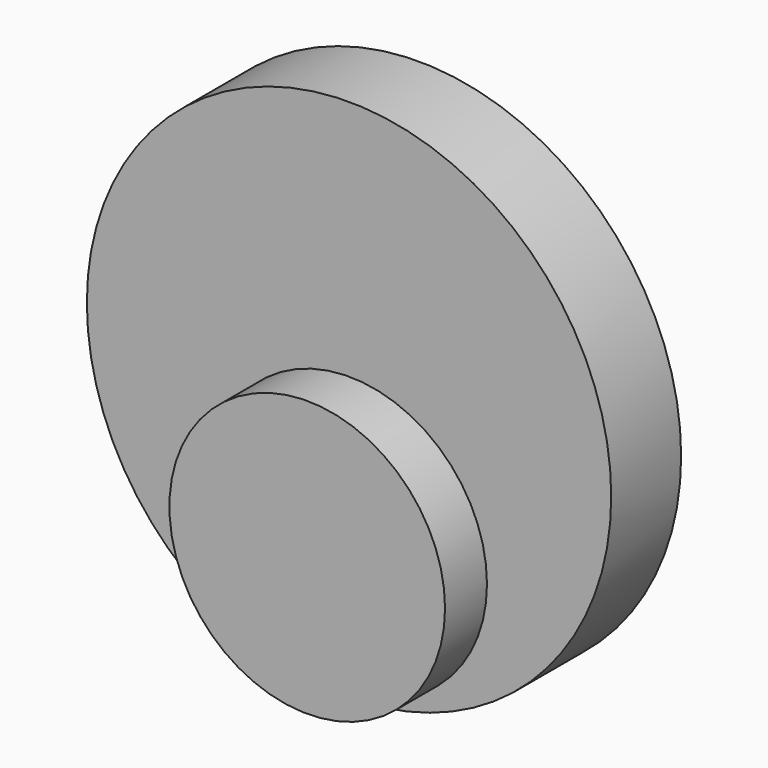
from build123d import *

# Parameters (mm, degrees)
F0_R     = 15
F0_R_2   = 7.884365
F1_DEPTH = 5
F2_DEPTH = 8


with BuildPart() as f1:
    # F0 (on Front) → F1 (new body)
    with BuildSketch(Plane.XZ):
        with Locations((-47.353451, 0)):
            Circle(F0_R)
        with Locations((-47.346041, -6.722561)):
            Circle(F0_R_2, mode=Mode.SUBTRACT)
        with Locations((-47.346041, -6.722561)):
            Circle(F0_R_2)
    extrude(amount=F1_DEPTH)


with BuildPart() as f2:
    # F0 (on Front) → F2 (new body)
    with BuildSketch(Plane.XZ):
        with Locations((-47.346041, -6.722561)):
            Circle(F0_R_2)
    extrude(amount=F2_DEPTH)


solid = Compound([f1.part, f2.part])
